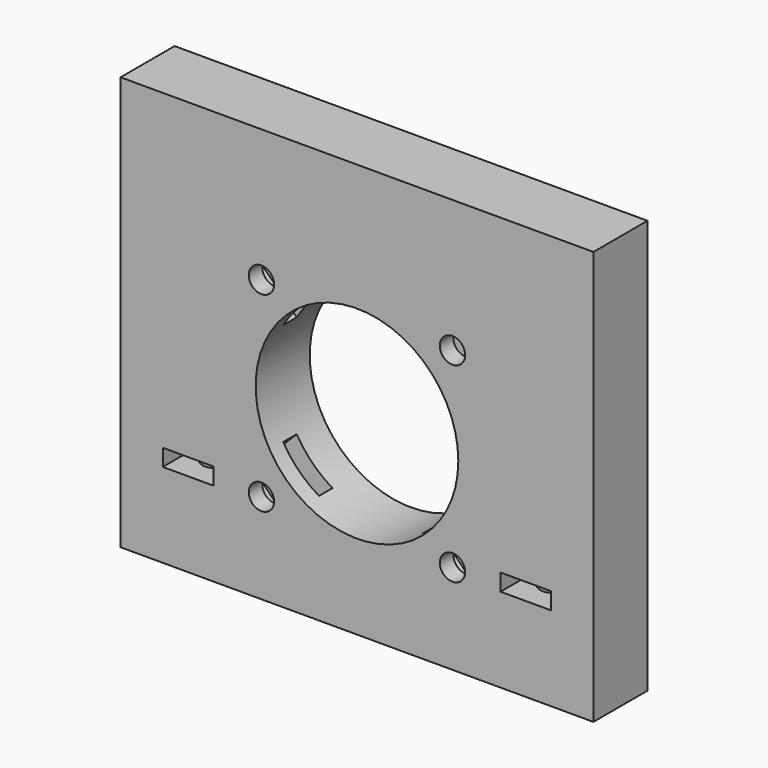
from build123d import *

# Parameters (mm, degrees)
BOX775_W                     = 8
BOX775_H                     = 6
BOX775_DEPTH                 = 2
BOX776_W                     = 8
BOX776_H                     = 6
BOX776_DEPTH                 = 2
CYLINDER1869_R               = 1.5
CYLINDER1869_DEPTH           = 50
CYLINDER1869_PLACEMENT_ANGLE = 45
CYLINDER1870_R               = 1.5
CYLINDER1870_DEPTH           = 50
CYLINDER1870_PLACEMENT_ANGLE = 45
BOX770_W                     = 6
BOX770_H                     = 2
BOX770_DEPTH                 = 8
BOX766_W                     = 8
BOX766_H                     = 2
BOX766_DEPTH                 = 6
BOX768_W                     = 8
BOX768_H                     = 2
BOX768_DEPTH                 = 6
BOX769_W                     = 6
BOX769_H                     = 2
BOX769_DEPTH                 = 8
COMPOUND924_PLACEMENT_ANGLE  = 45
CYLINDER1846_R               = 12
CYLINDER1846_DEPTH           = 20
CYLINDER1848_R               = 1.5
CYLINDER1848_DEPTH           = 40
CYLINDER1850_R               = 1.5
CYLINDER1850_DEPTH           = 40
CYLINDER1849_R               = 1.5
CYLINDER1849_DEPTH           = 40
CYLINDER1847_R               = 1.5
CYLINDER1847_DEPTH           = 40
COMPOUND925_PLACEMENT_ANGLE  = 45
BOX767_W                     = 56
BOX767_H                     = 8
BOX767_DEPTH                 = 49


with BuildPart() as krychle775:
    # Box775 → Box775 (new body)
    with BuildSketch(Plane(origin=(-17, 114, 39), x_dir=(0, 1, 0), z_dir=(0, 0, 1))):
        with Locations((4, 3)):
            Rectangle(BOX775_W, BOX775_H)
    extrude(amount=BOX775_DEPTH)


with BuildPart() as compound934:
    # Box776 → Box776 (new body)
    with BuildSketch(Plane(origin=(23, 114, 39), x_dir=(0, 1, 0), z_dir=(0, 0, 1))):
        with Locations((4, 3)):
            Rectangle(BOX776_W, BOX776_H)
    extrude(amount=BOX776_DEPTH)

    # Compound934: union Krychle775
    add(krychle775.part)


with BuildPart() as compound934_1:
    # Compound934 placement: moved
    add(compound934.part.moved(Location((0, 18, 0))))


with BuildPart() as obj1:
    # Cylinder1869 → Cylinder1869 (new body)
    with BuildSketch(Plane.XY):
        Circle(CYLINDER1869_R)
    extrude(amount=CYLINDER1869_DEPTH)


with BuildPart() as obj1_1:
    # Cylinder1869 placement: moved
    add(obj1.part.moved(Location((20, 118, 0))).rotate(Axis((20, 118, 0), (0, 0, 1)), CYLINDER1869_PLACEMENT_ANGLE))


with BuildPart() as compound935:
    # Cylinder1870 → Cylinder1870 (new body)
    with BuildSketch(Plane.XY):
        Circle(CYLINDER1870_R)
    extrude(amount=CYLINDER1870_DEPTH)


with BuildPart() as compound935_1:
    # Cylinder1870 placement: moved
    add(compound935.part.moved(Location((-20, 118, 0))).rotate(Axis((-20, 118, 0), (0, 0, 1)), CYLINDER1870_PLACEMENT_ANGLE))

    # Compound935: union obj1
    add(obj1_1.part)


with BuildPart() as compound935_2:
    # Compound935 placement: moved
    add(compound935_1.part.moved(Location((0, 18, 0))))


with BuildPart() as krychle770:
    # Box770 → Box770 (new body)
    with BuildSketch(Plane(origin=(-3, 116, 30), x_dir=(1, 0, 0), z_dir=(0, 0, 1))):
        with Locations((3, 1)):
            Rectangle(BOX770_W, BOX770_H)
    extrude(amount=BOX770_DEPTH)


with BuildPart() as krychle766:
    # Box766 → Box766 (new body)
    with BuildSketch(Plane(origin=(-19, 116, 46), x_dir=(1, 0, 0), z_dir=(0, 0, 1))):
        with Locations((4, 1)):
            Rectangle(BOX766_W, BOX766_H)
    extrude(amount=BOX766_DEPTH)


with BuildPart() as krychle768:
    # Box768 → Box768 (new body)
    with BuildSketch(Plane(origin=(11, 116, 46), x_dir=(1, 0, 0), z_dir=(0, 0, 1))):
        with Locations((4, 1)):
            Rectangle(BOX768_W, BOX768_H)
    extrude(amount=BOX768_DEPTH)


with BuildPart() as compound924:
    # Box769 → Box769 (new body)
    with BuildSketch(Plane(origin=(-3, 116, 60), x_dir=(1, 0, 0), z_dir=(0, 0, 1))):
        with Locations((3, 1)):
            Rectangle(BOX769_W, BOX769_H)
    extrude(amount=BOX769_DEPTH)

    # Compound924: union Krychle770, Krychle766, Krychle768
    add(krychle770.part)
    add(krychle766.part)
    add(krychle768.part)


with BuildPart() as compound924_1:
    # Compound924 placement: moved
    add(compound924.part.moved(Location((-34.65, 0, 16.35))).rotate(Axis((-34.65, 0, 16.35), (0, 1, 0)), COMPOUND924_PLACEMENT_ANGLE))


with BuildPart() as obj2:
    # Cylinder1846 → Cylinder1846 (new body)
    with BuildSketch(Plane(origin=(0, 124, 51), x_dir=(1, 0, 0), z_dir=(0, -1, 0))):
        Circle(CYLINDER1846_R)
    extrude(amount=CYLINDER1846_DEPTH)


with BuildPart() as obj3:
    # Cylinder1848 → Cylinder1848 (new body)
    with BuildSketch(Plane(origin=(16, 140, 49), x_dir=(1, 0, 0), z_dir=(0, -1, 0))):
        Circle(CYLINDER1848_R)
    extrude(amount=CYLINDER1848_DEPTH)


with BuildPart() as obj4:
    # Cylinder1850 → Cylinder1850 (new body)
    with BuildSketch(Plane(origin=(-16, 140, 49), x_dir=(1, 0, 0), z_dir=(0, -1, 0))):
        Circle(CYLINDER1850_R)
    extrude(amount=CYLINDER1850_DEPTH)


with BuildPart() as obj5:
    # Cylinder1849 → Cylinder1849 (new body)
    with BuildSketch(Plane(origin=(0, 140, 33), x_dir=(1, 0, 0), z_dir=(0, -1, 0))):
        Circle(CYLINDER1849_R)
    extrude(amount=CYLINDER1849_DEPTH)


with BuildPart() as compound925:
    # Cylinder1847 → Cylinder1847 (new body)
    with BuildSketch(Plane(origin=(0, 140, 65), x_dir=(1, 0, 0), z_dir=(0, -1, 0))):
        Circle(CYLINDER1847_R)
    extrude(amount=CYLINDER1847_DEPTH)

    # Compound925: union obj3, obj4, obj5
    add(obj3.part)
    add(obj4.part)
    add(obj5.part)


with BuildPart() as compound925_1:
    # Compound925 placement: moved
    add(compound925.part.moved(Location((-34.65, 0, 16.35))).rotate(Axis((-34.65, 0, 16.35), (0, 1, 0)), COMPOUND925_PLACEMENT_ANGLE))


with BuildPart() as cut583:
    # Box767 → Box767 (new body)
    with BuildSketch(Plane(origin=(-28, 114, 29), x_dir=(1, 0, 0), z_dir=(0, 0, 1))):
        with Locations((28, 4)):
            Rectangle(BOX767_W, BOX767_H)
    extrude(amount=BOX767_DEPTH)

    # Cut571: cut Compound925
    add(compound925_1.part, mode=Mode.SUBTRACT)

    # Cut573: cut obj2
    add(obj2.part, mode=Mode.SUBTRACT)

    # Cut572: cut Compound924
    add(compound924_1.part, mode=Mode.SUBTRACT)


with BuildPart() as cut583_1:
    # Cut572 placement: moved
    add(cut583.part.moved(Location((0, 18, 0))))

    # Cut582: cut Compound935
    add(compound935_2.part, mode=Mode.SUBTRACT)

    # Cut583: cut Compound934
    add(compound934_1.part, mode=Mode.SUBTRACT)


with BuildPart() as cut583_2:
    # Cut583 placement: moved
    add(cut583_1.part.moved(Location((0, 1, 0))))


solid = cut583_2.part
